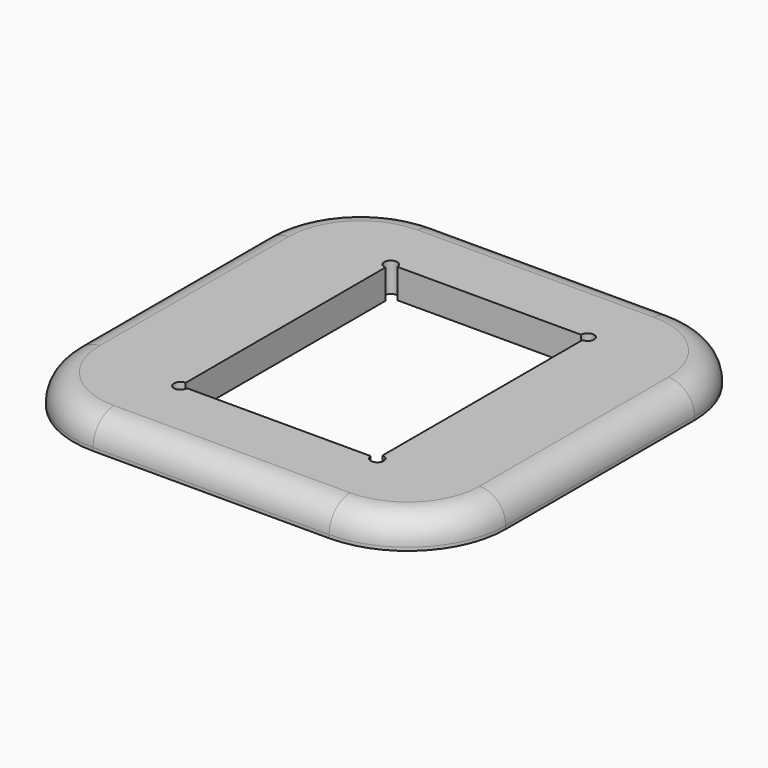
from build123d import *

# Parameters (mm, degrees)
F0_W     = 66.1
F0_H     = 66.1
F0_W_2   = 30.1
F0_H_2   = 40.2
F1_DEPTH = 4.5
F2_R     = 15
F3_R     = 4
F4_R     = 1
F5_DEPTH = 25


with BuildPart() as f1:
    # F0 (on Top) → F1 (new body)
    with BuildSketch(Plane.XY):
        Rectangle(F0_W, F0_H)
        Rectangle(F0_W_2, F0_H_2, mode=Mode.SUBTRACT)
    extrude(amount=F1_DEPTH)

    # F2
    f2_edges = [f1.edges().sort_by_distance(p)[0] for p in [
        (-33.05, -33.05, 2.25),
        (33.05, -33.05, 2.25),
        (-33.05, 33.05, 2.25),
        (33.05, 33.05, 2.25),
    ]]
    fillet(f2_edges, radius=F2_R)

    # F3
    f3_edges = [f1.edges().sort_by_distance(p)[0] for p in [
        (-28.656602, 28.656602, 4.5),
    ]]
    fillet(f3_edges, radius=F3_R)

    # F4 (on face) → F5 (cut)
    with BuildSketch(Plane.XY.offset(4.5)):
        with Locations((15.05, 20.1)):
            Circle(F4_R)
        with Locations((15.05, -20.1)):
            Circle(F4_R)
        with Locations((-15.05, -20.1)):
            Circle(F4_R)
        with Locations((-15.05, 20.1)):
            Circle(F4_R)
    extrude(amount=-F5_DEPTH, mode=Mode.SUBTRACT)


solid = f1.part
